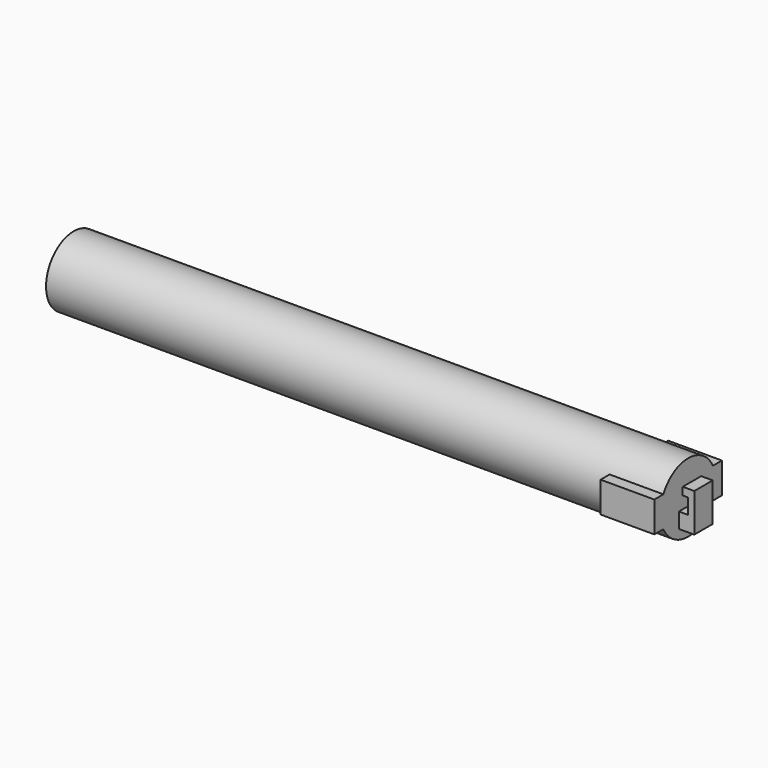
from build123d import *

# Parameters (mm, degrees)
F0_R           = 5.715
F1_DEPTH       = 101.6
F2_R           = 4.445
F3_DEPTH       = 99.06
F4_W           = 6.35
F4_H           = 8.89
F5_DEPTH       = 25.4
F8_DEPTH       = 8.89
F10_DEPTH      = 1.905
F10_DEPTH_BACK = 1.905


with BuildPart() as f1:
    # F0 (on Right) → F1 (new body)
    with BuildSketch(Plane.YZ):
        Circle(F0_R)
    extrude(amount=F1_DEPTH)

    # F2 (on face) → F3 (cut)
    with BuildSketch(Plane(origin=(0, 0, 0), x_dir=(0, -1, 0), z_dir=(-1, 0, 0))):
        Circle(F2_R)
    extrude(amount=-F3_DEPTH, mode=Mode.SUBTRACT)

    # F4 (on Top) → F5 (cut)
    with BuildSketch(Plane.XY):
        with Locations((95.885, 0)):
            Rectangle(F4_W, F4_H)
    extrude(amount=-F5_DEPTH, mode=Mode.SUBTRACT)

    # F7 (on offset) → F8 (join)
    with BuildSketch(Plane.YZ.offset(101.6)):
        with BuildLine():
            Line((6.985, 2.54), (5.119534, 2.54))
            ThreePointArc((5.119534, 2.54), (5.715, 0), (5.119534, -2.54))
            Line((5.119534, -2.54), (6.985, -2.54))
            Line((6.985, -2.54), (6.985, 2.54))
        make_face()
        with BuildLine():
            Line((-6.985, -2.54), (-5.119534, -2.54))
            ThreePointArc((-5.119534, -2.54), (-5.715, 0), (-5.119534, 2.54))
            Line((-5.119534, 2.54), (-6.985, 2.54))
            Line((-6.985, 2.54), (-6.985, -2.54))
        make_face()
    extrude(amount=-F8_DEPTH)

    # F9 (on Front) → F10 (join, two sides)
    with BuildSketch(Plane.XZ) as f10_sk:
        Polygon((102.235, 1.27), (103.124, 1.27), (103.124, -1.27), (101.6, -1.27), (101.6, -3.81), (104.14, -3.81), (104.14, 2.54), (102.235, 2.54), align=None)
    extrude(amount=F10_DEPTH)
    extrude(f10_sk.sketch, amount=-F10_DEPTH_BACK)


solid = f1.part
